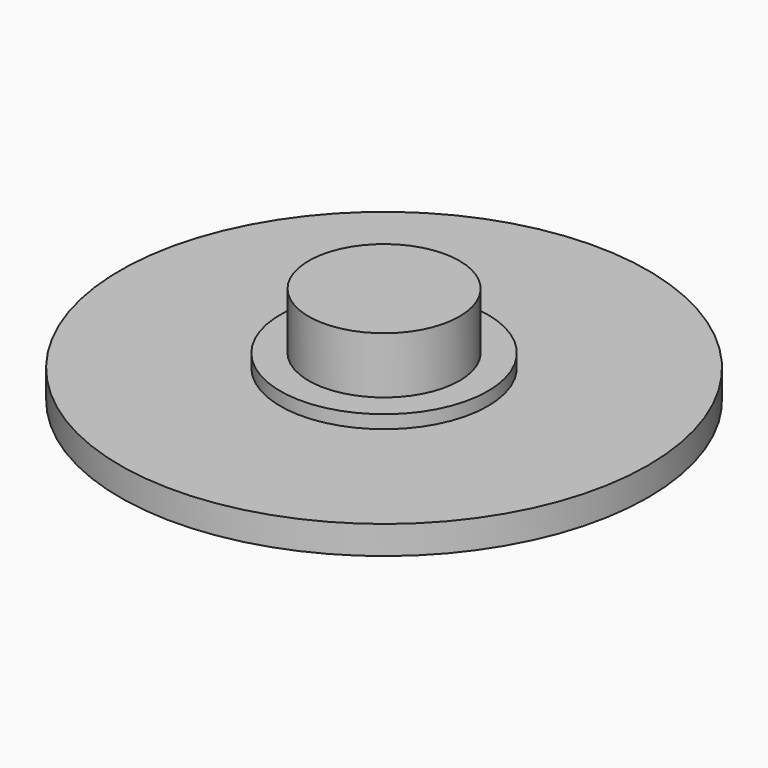
from build123d import *

# Parameters (mm, degrees)
F0_R     = 14
F0_R_2   = 5.5
F1_DEPTH = 1.5
F0_R_3   = 4
F2_DEPTH = 2.2
F3_DEPTH = 2.2
F4_R     = 4
F5_DEPTH = 3


with BuildPart() as f1:
    # F0 (on Top) → F1 (new body)
    with BuildSketch(Plane.XY):
        with Locations((24.702849, 0.210536)):
            Circle(F0_R)
        with Locations((24.702849, 0.210536)):
            Circle(F0_R_2, mode=Mode.SUBTRACT)
    extrude(amount=F1_DEPTH)

    # F0 (on Top) → F2 (join)
    with BuildSketch(Plane.XY):
        with Locations((24.702849, 0.210536)):
            Circle(F0_R_2)
        with Locations((24.702849, 0.210536)):
            Circle(F0_R_3, mode=Mode.SUBTRACT)
    extrude(amount=F2_DEPTH)

    # F0 (on Top) → F3 (join)
    with BuildSketch(Plane.XY):
        with Locations((24.702849, 0.210536)):
            Circle(F0_R_3)
    extrude(amount=F3_DEPTH)

    # F4 (on face) → F5 (join)
    with BuildSketch(Plane.XY.offset(2.2)):
        with Locations((24.702849, 0.210536)):
            Circle(F4_R)
    extrude(amount=F5_DEPTH)


solid = f1.part
